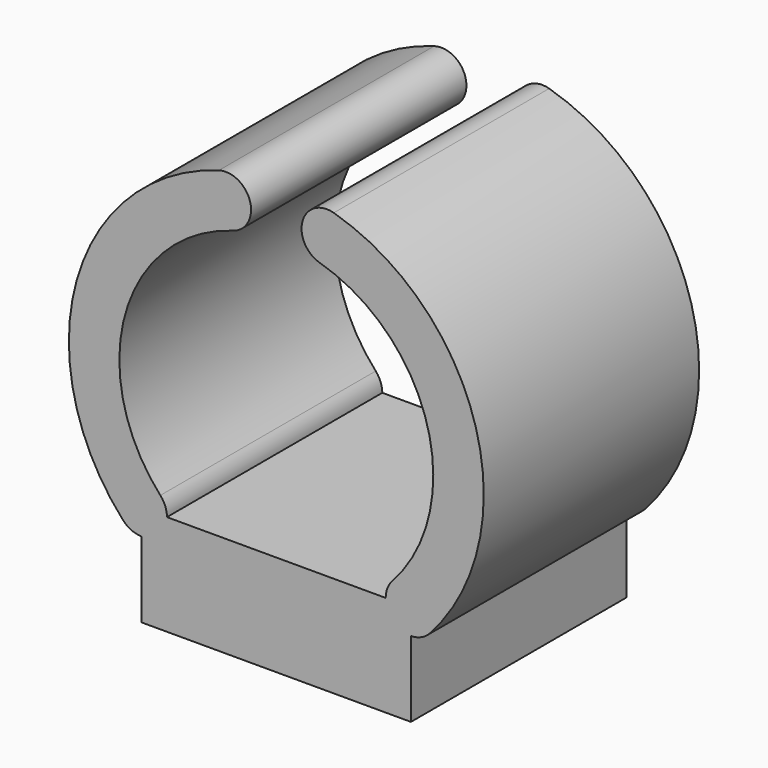
from build123d import *

# Parameters (mm, degrees)
F0_W     = 16
F0_H     = 16
F1_DEPTH = 6
F2_T     = -1
F4_DEPTH = 16


with BuildPart() as f1:
    # F0 (on Top) → F1 (new body)
    with BuildSketch(Plane.XY):
        with Locations((8, -8)):
            Rectangle(F0_W, F0_H)
    extrude(amount=F1_DEPTH)

    # F2
    f2_openings = [f1.faces().sort_by_distance(p)[0] for p in [
        (8, -8, 0),
    ]]
    offset(amount=F2_T, openings=f2_openings)

    # F3 (on Front) → F4 (join)
    with BuildSketch(Plane.XZ):
        with BuildLine():
            ThreePointArc((14.891778, 7.010863), (14.989137, 4.891778), (17.108222, 4.989137))
            ThreePointArc((17.108222, 4.989137), (19.863955, 16.648312), (11.415583, 25.142748))
            ThreePointArc((11.415583, 25.142748), (9.558719, 24.11705), (10.584417, 22.260186))
            ThreePointArc((10.584417, 22.260186), (16.976916, 15.832832), (14.891778, 7.010863))
        make_face()
        with BuildLine():
            ThreePointArc((4.584417, 25.142748), (-3.863955, 16.648312), (-1.108222, 4.989137))
            ThreePointArc((-1.108222, 4.989137), (1.010863, 4.891778), (1.108222, 7.010863))
            ThreePointArc((1.108222, 7.010863), (-0.976916, 15.832832), (5.415583, 22.260186))
            ThreePointArc((5.415583, 22.260186), (6.441281, 24.11705), (4.584417, 25.142748))
        make_face()
    extrude(amount=F4_DEPTH)


solid = f1.part
